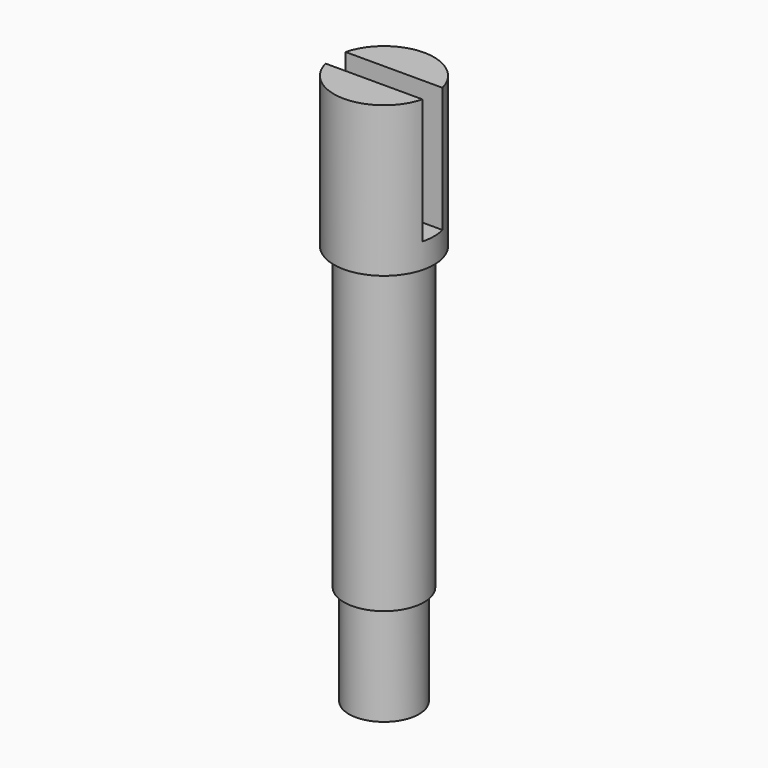
from build123d import *

# Parameters (mm, degrees)
SKETCH001_W  = 0.5
SKETCH001_H  = 2
POCKET_DEPTH = 2.5


with BuildPart() as part:
    # Sketch → Revolution (revolve)
    with BuildSketch(Plane.YZ):
        Polygon((0, 0), (-1, 0), (-1, -3), (-0.8, -3), (-0.8, -9), (-0.7, -9), (-0.7, -11), (0, -11), align=None)
    revolve(axis=Axis((0, 0, 0), (0, 0, 1)))

    # Sketch001 (on Face1 of Revolution) → Pocket (cut)
    with BuildSketch(Plane(origin=(0, 0, 0), x_dir=(0, -1, 0), z_dir=(0, 0, 1))):
        Rectangle(SKETCH001_W, SKETCH001_H)
    extrude(amount=-POCKET_DEPTH, mode=Mode.SUBTRACT)


solid = part.part
